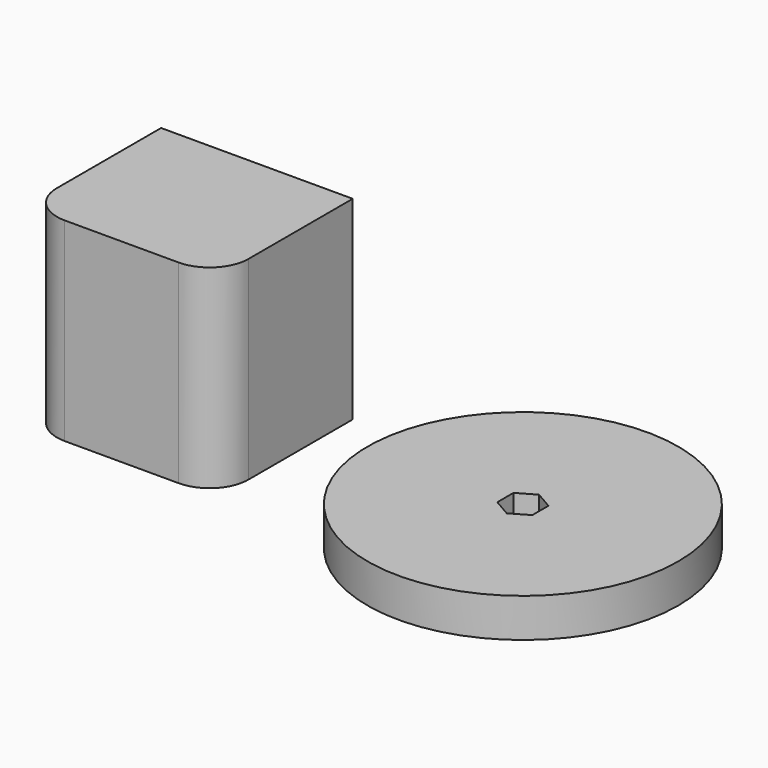
from build123d import *

# Parameters (mm, degrees)
F0_R     = 20
F1_DEPTH = 5
F0_W     = 24.656
F0_H     = 21.756
F2_DEPTH = 25
F3_R     = 5


with BuildPart() as f1:
    # F0 (on Top) → F1 (new body)
    with BuildSketch(Plane.XY):
        Circle(F0_R)
        Polygon((0, 2.598076), (2.25, 1.299038), (2.25, -1.299038), (0, -2.598076), (-2.25, -1.299038), (-2.25, 1.299038), align=None, mode=Mode.SUBTRACT)
    extrude(amount=F1_DEPTH)


with BuildPart() as f2:
    # F0 (on Top) → F2 (new body)
    with BuildSketch(Plane.XY):
        with Locations((-43.170358, 0.302571)):
            Rectangle(F0_W, F0_H)
    extrude(amount=F2_DEPTH)

    # F3
    f3_edges = [f2.edges().sort_by_distance(p)[0] for p in [
        (-30.842358, -10.575429, 12.5),
        (-55.498358, -10.575429, 12.5),
    ]]
    fillet(f3_edges, radius=F3_R)


solid = Compound([f1.part, f2.part])
